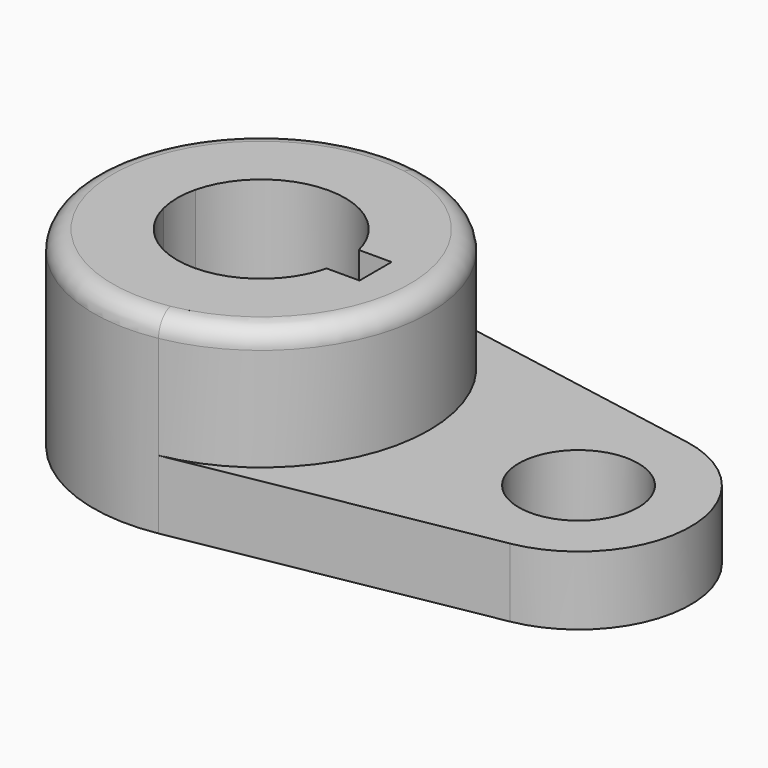
from build123d import *

# Parameters (mm, degrees)
F0_R     = 24.8703157221
F1_DEPTH = 32.512
F2_DEPTH = 11.684
F3_R     = 3.302


with BuildPart() as f1:
    # F0 (on Top) → F1 (new body)
    with BuildSketch(Plane.XY):
        with BuildLine():
            ThreePointArc((-14.4067881156, -28.1265414802), (2.4665893818, -18.3362616868), (9.1255648255, 0))
            ThreePointArc((9.1255648255, 0), (2.4665893818, 18.3362616868), (-14.4067881156, 28.1265414802))
            ThreePointArc((-14.4067881156, 28.1265414802), (-48.0244351745, 0), (-14.4067881156, -28.1265414802))
        make_face()
        with Locations((-19.4494351745, 0)):
            Circle(F0_R, mode=Mode.SUBTRACT)
        with Locations((-19.4494351745, 0)):
            Circle(F0_R)
        with BuildLine():
            Line((0, 3.4105645027), (0, 0))
            Line((0, 0), (0, -3.4105645027))
            Line((0, -3.4105645027), (-5.5749728057, -3.4105645027))
            ThreePointArc((-5.5749728057, -3.4105645027), (-19.4494351745, -14.2875), (-33.3238975433, -3.4105645027))
            ThreePointArc((-33.3238975433, -3.4105645027), (-33.7369351745, 0), (-33.3238975433, 3.4105645027))
            ThreePointArc((-33.3238975433, 3.4105645027), (-19.4494351745, 14.2875), (-5.5749728057, 3.4105645027))
            Line((-5.5749728057, 3.4105645027), (0, 3.4105645027))
        make_face(mode=Mode.SUBTRACT)
    extrude(amount=F1_DEPTH)

    # F0 (on Top) → F2 (join)
    with BuildSketch(Plane.XY):
        with BuildLine():
            ThreePointArc((-14.4067881156, 28.1265414802), (2.4665893818, 18.3362616868), (9.1255648255, 0))
            ThreePointArc((9.1255648255, 0), (2.4665893818, -18.3362616868), (-14.4067881156, -28.1265414802))
            Line((-14.4067881156, -28.1265414802), (37.8873295314, -18.7510276535))
            ThreePointArc((37.8873295314, -18.7510276535), (53.5755648255, 0), (37.8873295314, 18.7510276535))
            Line((37.8873295314, 18.7510276535), (-14.4067881156, 28.1265414802))
        make_face()
        with BuildLine():
            ThreePointArc((24.3655648255, 0), (34.5255648255, 10.16), (44.6855648255, 0))
            ThreePointArc((44.6855648255, 0), (34.5255648255, -10.16), (24.3655648255, 0))
        make_face(mode=Mode.SUBTRACT)
        with BuildLine():
            ThreePointArc((-14.4067881156, -28.1265414802), (2.4665893818, -18.3362616868), (9.1255648255, 0))
            ThreePointArc((9.1255648255, 0), (2.4665893818, 18.3362616868), (-14.4067881156, 28.1265414802))
            ThreePointArc((-14.4067881156, 28.1265414802), (-48.0244351745, 0), (-14.4067881156, -28.1265414802))
        make_face()
        with Locations((-19.4494351745, 0)):
            Circle(F0_R, mode=Mode.SUBTRACT)
    extrude(amount=F2_DEPTH)

    # F3
    f3_edges = [f1.edges().sort_by_distance(p)[0] for p in [
        (-48.024435, 0, 32.512),
    ]]
    fillet(f3_edges, radius=F3_R)


solid = f1.part
